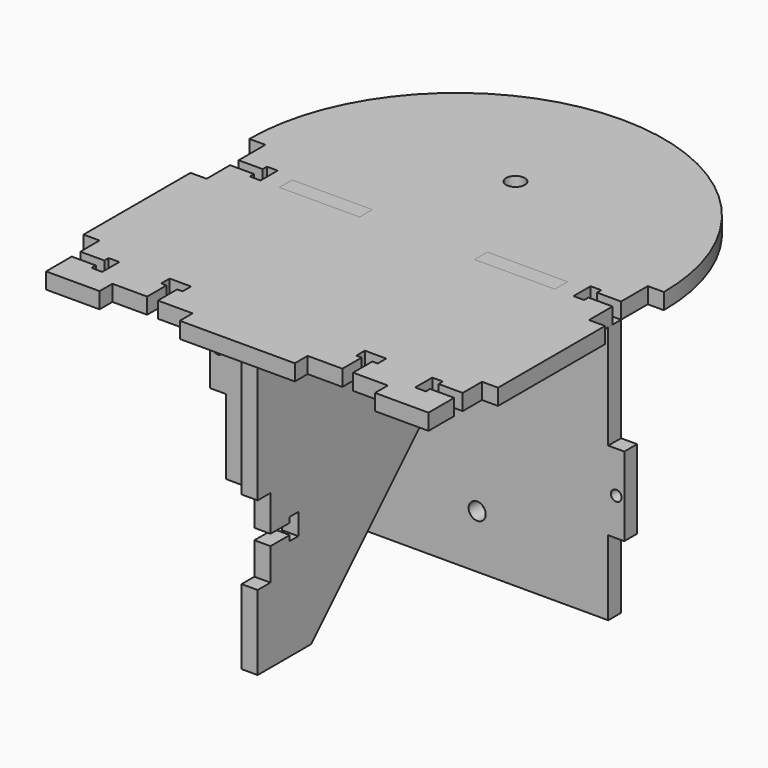
from build123d import *

# Parameters (mm, degrees)
F0_R     = 3.5
F2_DEPTH = 6
F1_R     = 2
F4_DEPTH = 6
F3_R     = 3.2
F3_R_2   = 2
F5_DEPTH = 6


with BuildPart() as f2:
    # F0 (on Top) → F2 (new body)
    with BuildSketch(Plane.XY):
        with BuildLine():
            ThreePointArc((77.5, 12.5), (54.800776, 67.300776), (0, 90))
            ThreePointArc((0, 90), (-54.800776, 67.300776), (-77.5, 12.5))
            Line((-77.5, 12.5), (-71.5, 12.5))
            Line((-71.5, 12.5), (-71.5, 0))
            Line((-71.5, 0), (-62.5, 0))
            Line((-62.5, 0), (-62.5, 2))
            Line((-62.5, 2), (-58.5, 2))
            Line((-58.5, 2), (-58.5, -6))
            Line((-58.5, -6), (-62.5, -6))
            Line((-62.5, -6), (-62.5, -4))
            Line((-62.5, -4), (-71.5, -4))
            Line((-71.5, -4), (-71.5, -15))
            Line((-71.5, -15), (-77.5, -15))
            Line((-77.5, -15), (-77.5, -65))
            Line((-77.5, -65), (-71.5, -65))
            Line((-71.5, -65), (-71.5, -74))
            Line((-71.5, -74), (-62.5, -74))
            Line((-62.5, -74), (-62.5, -72))
            Line((-62.5, -72), (-58.5, -72))
            Line((-58.5, -72), (-58.5, -80))
            Line((-58.5, -80), (-62.5, -80))
            Line((-62.5, -80), (-62.5, -78))
            Line((-62.5, -78), (-71.5, -78))
            Line((-71.5, -78), (-71.5, -90))
            Line((-71.5, -90), (-51.5, -90))
            Line((-51.5, -90), (-51.5, -84))
            Line((-51.5, -84), (-38.5, -84))
            Line((-38.5, -84), (-38.5, -75))
            Line((-38.5, -75), (-40.5, -75))
            Line((-40.5, -75), (-40.5, -71))
            Line((-40.5, -71), (-32.5, -71))
            Line((-32.5, -71), (-32.5, -75))
            Line((-32.5, -75), (-34.5, -75))
            Line((-34.5, -75), (-34.5, -84))
            Line((-34.5, -84), (-21.5, -84))
            Line((-21.5, -84), (-21.5, -90))
            Line((-21.5, -90), (0, -90))
            Line((0, -90), (21.5, -90))
            Line((21.5, -90), (21.5, -84))
            Line((21.5, -84), (34.5, -84))
            Line((34.5, -84), (34.5, -75))
            Line((34.5, -75), (32.5, -75))
            Line((32.5, -75), (32.5, -71))
            Line((32.5, -71), (40.5, -71))
            Line((40.5, -71), (40.5, -75))
            Line((40.5, -75), (38.5, -75))
            Line((38.5, -75), (38.5, -84))
            Line((38.5, -84), (51.5, -84))
            Line((51.5, -84), (51.5, -90))
            Line((51.5, -90), (71.5, -90))
            Line((71.5, -90), (71.5, -78))
            Line((71.5, -78), (62.5, -78))
            Line((62.5, -78), (62.5, -80))
            Line((62.5, -80), (58.5, -80))
            Line((58.5, -80), (58.5, -72))
            Line((58.5, -72), (62.5, -72))
            Line((62.5, -72), (62.5, -74))
            Line((62.5, -74), (71.5, -74))
            Line((71.5, -74), (71.5, -65))
            Line((71.5, -65), (77.5, -65))
            Line((77.5, -65), (77.5, -15))
            Line((77.5, -15), (71.5, -15))
            Line((71.5, -15), (71.5, -4))
            Line((71.5, -4), (62.5, -4))
            Line((62.5, -4), (62.5, -6))
            Line((62.5, -6), (58.5, -6))
            Line((58.5, -6), (58.5, 2))
            Line((58.5, 2), (62.5, 2))
            Line((62.5, 2), (62.5, 0))
            Line((62.5, 0), (71.5, 0))
            Line((71.5, 0), (71.5, 12.5))
            Line((71.5, 12.5), (77.5, 12.5))
        make_face()
        with Locations((0, 40)):
            Circle(F0_R, mode=Mode.SUBTRACT)
    extrude(amount=F2_DEPTH)


with BuildPart() as f4:
    # F1 (on Right) → F4 (new body)
    with BuildSketch(Plane.YZ):
        Polygon((-63, 0), (-88, 0), (-88, -45), (-82, -45), (-82, -58.436746), (-73.000222, -58.5), (-73.000222, -56.5), (-69, -56.5), (-69, -64.5), (-73, -64.5), (-73, -62.5), (-82, -62.5), (-82, -74.5), (-88, -74.5), (-88, -102.5), (-63, -102.5), (14.5, -25), (14.5, 0), (-13, 0), (-13, -6), (-63, -6), align=None)
        with Locations((-74, -3)):
            Circle(F1_R, mode=Mode.SUBTRACT)
        with Locations((0, -3)):
            Circle(F1_R, mode=Mode.SUBTRACT)
    extrude(amount=F4_DEPTH)


with BuildPart() as f5:
    # F3 (on Front) → F5 (new body)
    with BuildSketch(Plane.XZ):
        Polygon((-71.5, -68.5), (-71.5, -96.5), (71.5, -96.5), (71.5, -68.5), (77.5, -68.5), (77.5, -39), (71.5, -39), (71.5, 0), (51.5, 0), (51.5, 6), (21.5, 6), (21.5, 0), (-21.5, 0), (-21.5, 6), (-51.5, 6), (-51.5, 0), (-71.5, 0), (-71.5, -39), (-77.5, -39), (-77.5, -68.5), align=None)
        with Locations((-22.5, -76.5)):
            Circle(F3_R, mode=Mode.SUBTRACT)
        with Locations((-74.5, -54.5)):
            Circle(F3_R_2, mode=Mode.SUBTRACT)
        with Locations((22.5, -76.5)):
            Circle(F3_R, mode=Mode.SUBTRACT)
        with Locations((74.5, -54.5)):
            Circle(F3_R_2, mode=Mode.SUBTRACT)
        with Locations((-22.5, -20)):
            Circle(F3_R, mode=Mode.SUBTRACT)
        with Locations((-36.5, 3)):
            Circle(F3_R_2, mode=Mode.SUBTRACT)
        with Locations((22.5, -20)):
            Circle(F3_R, mode=Mode.SUBTRACT)
        with Locations((36.5, 3)):
            Circle(F3_R_2, mode=Mode.SUBTRACT)
    extrude(amount=F5_DEPTH)


solid = Compound([f2.part, f4.part, f5.part])
